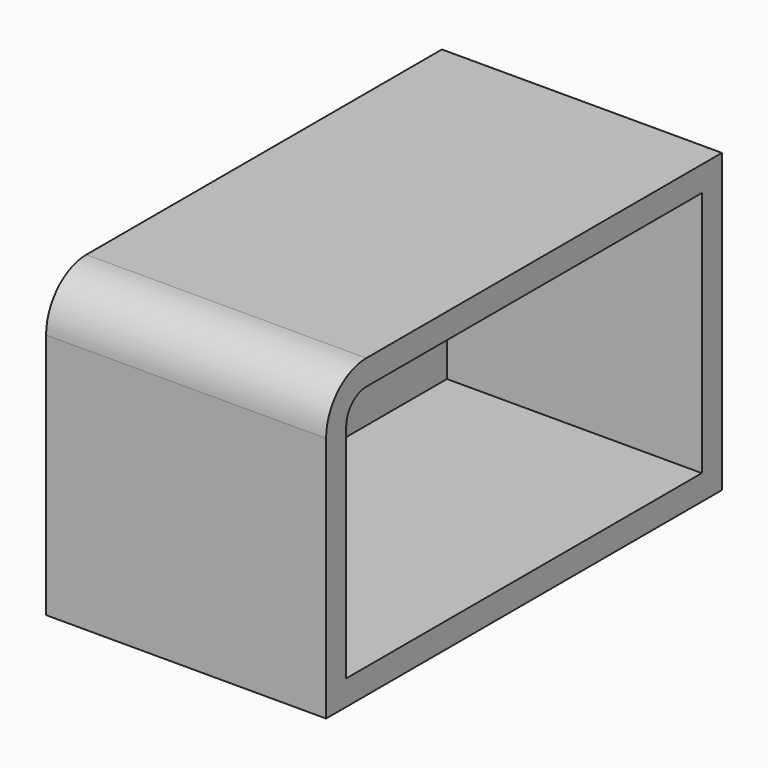
from build123d import *

# Parameters (mm, degrees)
F0_W     = 28.295456
F0_H     = 30
F1_DEPTH = 50
F2_R     = 5.08
F3_T     = -2.54
F4_R     = 8
F5_DEPTH = 9.1


with BuildPart() as f1:
    # F0 (on Front) → F1 (new body)
    with BuildSketch(Plane.XZ):
        with Locations((20.883416, 19.067463)):
            Rectangle(F0_W, F0_H)
    extrude(amount=F1_DEPTH)

    # F2
    f2_edges = [f1.edges().sort_by_distance(p)[0] for p in [
        (20.883416, -50, 34.067463),
    ]]
    fillet(f2_edges, radius=F2_R)

    # F3
    f3_openings = [f1.faces().sort_by_distance(p)[0] for p in [
        (35.031144, -24.911561, 19.016082),
    ]]
    offset(amount=F3_T, openings=f3_openings)

    # F4 (on face) → F5 (cut)
    with BuildSketch(Plane.YZ.offset(9.275688)):
        with Locations((-33.887234, 21.420674)):
            Circle(F4_R)
    extrude(amount=-F5_DEPTH, mode=Mode.SUBTRACT)


solid = f1.part
